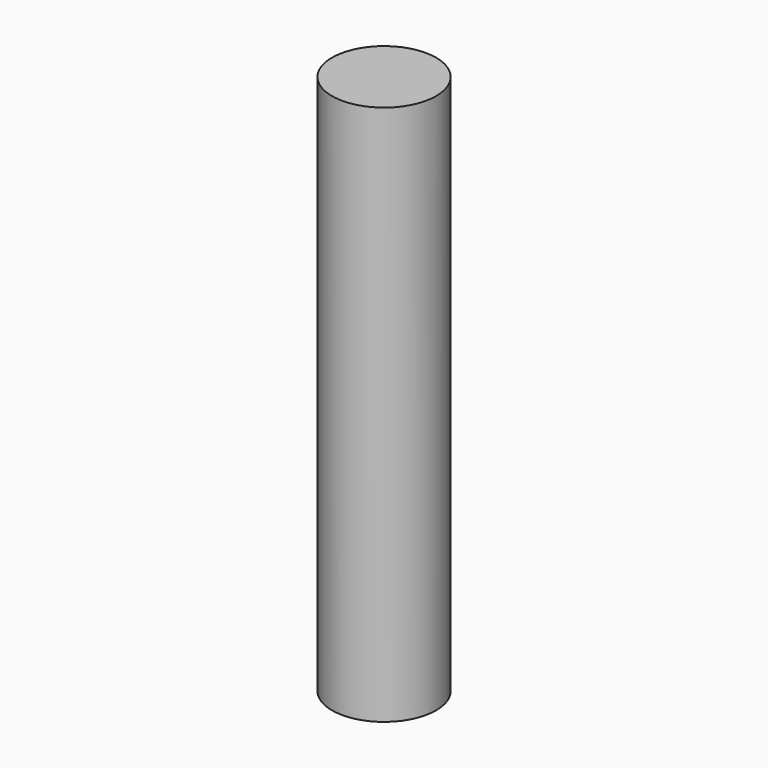
from build123d import *

# Parameters (mm, degrees)
F0_R     = 3.85
F1_DEPTH = 25
F2_DEPTH = 10
F3_DEPTH = 15


with BuildPart() as f1:
    # F0 (on Top) → F1 (new body)
    with BuildSketch(Plane.XY):
        Circle(F0_R)
    extrude(amount=F1_DEPTH)


with BuildPart() as f1b:
    # F0 (on Top) → F1, piece 2 (new body)
    with BuildSketch(Plane.XY):
        with Locations((0, -18.7460610834)):
            Circle(F0_R)
    extrude(amount=F1_DEPTH)


with BuildPart() as f1c:
    # F0 (on Top) → F1, piece 3 (new body)
    with BuildSketch(Plane.XY):
        with Locations((-22.4686189292, -18.7460610834)):
            Circle(F0_R)
    extrude(amount=F1_DEPTH)

    # F2 (add): a face of the model
    f2_faces = [f1c.faces().sort_by_distance(p)[0] for p in [
        (-22.4686189292, -18.7460610834, 25),
    ]]
    extrude(f2_faces, amount=F2_DEPTH)


with BuildPart() as f1d:
    # F0 (on Top) → F1, piece 4 (new body)
    with BuildSketch(Plane.XY):
        with Locations((-22.4686189292, 0)):
            Circle(F0_R)
    extrude(amount=F1_DEPTH)

    # F3 (add): a face of the model
    f3_faces = [f1d.faces().sort_by_distance(p)[0] for p in [
        (-22.4686189292, 0, 25),
    ]]
    extrude(f3_faces, amount=F3_DEPTH)


solid = f1d.part
